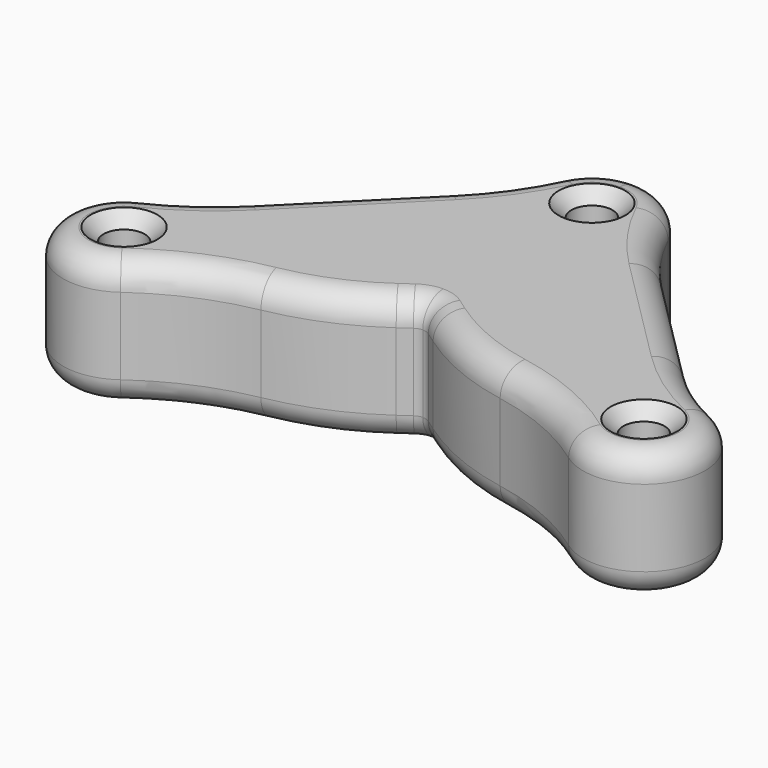
from build123d import *

# Parameters (mm, degrees)
F0_R     = 1.6
F1_DEPTH = 10
F2_R     = 2
F3_SIZE  = 1


with BuildPart() as f1:
    # F0 (on Top) → F1 (new body)
    with BuildSketch(Plane.XY):
        with BuildLine():
            ThreePointArc((22.309715, 4.280196), (19.411123, 5.989188), (16.840064, 8.159936))
            Line((16.840064, 8.159936), (8.159936, 16.840064))
            ThreePointArc((8.159936, 16.840064), (5.989188, 19.411123), (4.280196, 22.309715))
            ThreePointArc((4.280196, 22.309715), (2.527732, 24.271576), (0, 25))
            ThreePointArc((0, 25), (-2.527732, 24.271576), (-4.280196, 22.309715))
            ThreePointArc((-4.280196, 22.309715), (-5.989188, 19.411123), (-8.159936, 16.840064))
            Line((-8.159936, 16.840064), (-16.840064, 8.159936))
            ThreePointArc((-16.840064, 8.159936), (-19.411123, 5.989188), (-22.309715, 4.280196))
            ThreePointArc((-22.309715, 4.280196), (-24.326044, -2.438928), (-17.45191, -3.838384))
            ThreePointArc((-17.45191, -3.838384), (-13.581355, -1.631059), (-9.318154, -0.335452))
            ThreePointArc((-9.318154, -0.335452), (-5.198131, 0.899152), (-1.437341, 2.986088))
            Line((-1.437341, 2.986088), (-0.576424, 3.593386))
            ThreePointArc((-0.576424, 3.593386), (-0.302365, 3.729427), (0, 3.776235))
            ThreePointArc((0, 3.776235), (0.302365, 3.729427), (0.576424, 3.593386))
            Line((0.576424, 3.593386), (1.437341, 2.986088))
            ThreePointArc((1.437341, 2.986088), (5.198131, 0.899152), (9.318154, -0.335452))
            ThreePointArc((9.318154, -0.335452), (13.581355, -1.631059), (17.45191, -3.838384))
            ThreePointArc((17.45191, -3.838384), (24.326044, -2.438928), (22.309715, 4.280196))
        make_face()
        with Locations((-20.25, 0)):
            Circle(F0_R, mode=Mode.SUBTRACT)
        with Locations((20.25, 0)):
            Circle(F0_R, mode=Mode.SUBTRACT)
        with BuildLine():
            ThreePointArc((0, 21.85), (1.6, 20.25), (0, 18.65))
            ThreePointArc((0, 18.65), (-1.6, 20.25), (0, 21.85))
        make_face(mode=Mode.SUBTRACT)
    extrude(amount=F1_DEPTH)

    # F2
    f2_edges = [f1.edges().sort_by_distance(p)[0] for p in [
        (-5.198131, 0.899152, 10),
        (-5.198131, 0.899152, 0),
        (-12.5, 12.5, 10),
        (-19.411123, 5.989188, 10),
    ]]
    fillet(f2_edges, radius=F2_R)

    # F3
    f3_edges = [f1.edges().sort_by_distance(p)[0] for p in [
        (0, 18.65, 10),
        (-21.85, 0, 10),
        (18.65, 0, 10),
        (-21.85, 0, 0),
        (0, 18.65, 0),
        (18.65, 0, 0),
    ]]
    chamfer(f3_edges, length=F3_SIZE)


solid = f1.part
